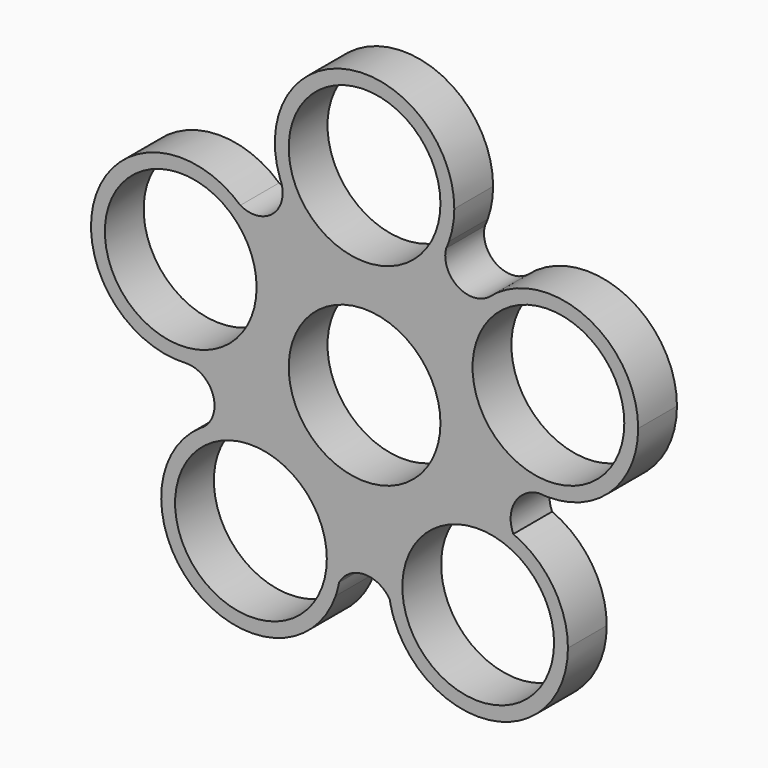
from build123d import *

# Parameters (mm, degrees)
F0_R     = 10.95
F0_R_2   = 12.95
F1_DEPTH = 7


with BuildPart() as f1:
    # F0 (on Front) → F1 (new body)
    with BuildSketch(Plane.XZ):
        with BuildLine():
            ThreePointArc((12.172466, 23.480318), (12.754135, 25.656223), (12.95, 27.900001))
            ThreePointArc((12.95, 27.900001), (-2.180319, 40.665138), (-12.215824, 23.601612))
            ThreePointArc((-12.215824, 23.601612), (-12.088324, 23.302709), (-11.98498, 22.994619))
            ThreePointArc((-11.98498, 22.994619), (-0.272784, 14.952874), (11.767732, 22.494172))
            ThreePointArc((11.767732, 22.494172), (11.936748, 23.000933), (12.172466, 23.480318))
        make_face()
        with Locations((0, 27.900001)):
            Circle(F0_R, mode=Mode.SUBTRACT)
        with BuildLine():
            ThreePointArc((-11.98498, 22.994619), (-12.088324, 23.302709), (-12.215824, 23.601612))
            ThreePointArc((-12.215824, 23.601612), (-12.104208, 23.296668), (-11.98498, 22.994619))
        make_face()
        with BuildLine():
            ThreePointArc((11.767732, 22.494172), (11.98025, 22.983079), (12.172466, 23.480318))
            ThreePointArc((12.172466, 23.480318), (11.936748, 23.000933), (11.767732, 22.494172))
        make_face()
        with BuildLine():
            ThreePointArc((11.767732, 22.494172), (-0.272784, 14.952874), (-11.98498, 22.994619))
            ThreePointArc((-11.98498, 22.994619), (-13.375236, 18.64351), (-17.930122, 18.300016))
            ThreePointArc((-17.930122, 18.300016), (-14.720748, 13.926351), (-13.584492, 8.621829))
            ThreePointArc((-13.584492, 8.621829), (-17.123103, -0.273577), (-25.805072, -4.307612))
            ThreePointArc((-25.805072, -4.307612), (-21.900239, -6.980602), (-23.17786, -11.536948))
            ThreePointArc((-23.17786, -11.536948), (-10.077985, -11.268985), (-3.449471, -22.571256))
            ThreePointArc((-3.449471, -22.571256), (-3.506141, -23.781442), (-3.675656, -24.981036))
            ThreePointArc((-3.675656, -24.981036), (-0.079184, -22.764184), (3.637357, -24.773254))
            ThreePointArc((3.637357, -24.773254), (8.35921, -12.419261), (21.466525, -10.654224))
            ThreePointArc((21.466525, -10.654224), (21.711548, -6.496146), (25.227226, -4.262393))
            ThreePointArc((25.227226, -4.262393), (14.212611, 4.636512), (17.93026, 18.300016))
            ThreePointArc((17.93026, 18.300016), (13.371414, 18.226062), (11.767732, 22.494172))
        make_face()
        Circle(F0_R_2, mode=Mode.SUBTRACT)
        with BuildLine():
            ThreePointArc((-13.584492, 8.621829), (-14.720748, 13.926351), (-17.930122, 18.300016))
            ThreePointArc((-17.930122, 18.300016), (-38.763807, 12.881685), (-25.805072, -4.307612))
            ThreePointArc((-25.805072, -4.307612), (-17.123103, -0.273577), (-13.584492, 8.621829))
        make_face()
        with Locations((-26.534493, 8.621829)):
            Circle(F0_R, mode=Mode.SUBTRACT)
        with BuildLine():
            ThreePointArc((39.48424, 8.621481), (31.839, 20.435118), (17.93026, 18.300016))
            ThreePointArc((17.93026, 18.300016), (14.212611, 4.636512), (25.227226, -4.262393))
            ThreePointArc((25.227226, -4.262393), (25.883111, -4.24845), (26.53424, -4.328519))
            ThreePointArc((26.53424, -4.328519), (35.691273, -0.535552), (39.48424, 8.621481))
        make_face()
        with Locations((26.53424, 8.621481)):
            Circle(F0_R, mode=Mode.SUBTRACT)
        with BuildLine():
            ThreePointArc((26.53424, -4.328519), (25.883111, -4.24845), (25.227226, -4.262393))
            ThreePointArc((25.227226, -4.262393), (25.879897, -4.311977), (26.53424, -4.328519))
        make_face()
        with BuildLine():
            ThreePointArc((-23.821215, -11.958988), (-23.48952, -11.763239), (-23.17786, -11.536948))
            ThreePointArc((-23.17786, -11.536948), (-23.502673, -11.743188), (-23.821215, -11.958988))
        make_face()
        with BuildLine():
            ThreePointArc((-3.449471, -22.571256), (-10.077985, -11.268985), (-23.17786, -11.536948))
            ThreePointArc((-23.17786, -11.536948), (-23.48952, -11.763239), (-23.821215, -11.958988))
            ThreePointArc((-23.821215, -11.958988), (-24.225526, -32.888977), (-4.179363, -26.857451))
            ThreePointArc((-4.179363, -26.857451), (-4.036912, -25.889875), (-3.675656, -24.981036))
            ThreePointArc((-3.675656, -24.981036), (-3.506141, -23.781442), (-3.449471, -22.571256))
        make_face()
        with Locations((-16.399471, -22.571256)):
            Circle(F0_R, mode=Mode.SUBTRACT)
        with BuildLine():
            ThreePointArc((29.34881, -22.571471), (27.199953, -15.427396), (21.466525, -10.654224))
            ThreePointArc((21.466525, -10.654224), (8.35921, -12.419261), (3.637357, -24.773254))
            ThreePointArc((3.637357, -24.773254), (4.116997, -25.884803), (4.261486, -27.086767))
            ThreePointArc((4.261486, -27.086767), (18.692733, -35.316683), (29.34881, -22.571471))
        make_face()
        with Locations((16.398809, -22.571471)):
            Circle(F0_R, mode=Mode.SUBTRACT)
        with BuildLine():
            ThreePointArc((4.261486, -27.086767), (4.116997, -25.884803), (3.637357, -24.773254))
            ThreePointArc((3.637357, -24.773254), (3.895796, -25.944477), (4.261486, -27.086767))
        make_face()
        with BuildLine():
            ThreePointArc((-4.179363, -26.857451), (-3.892271, -25.928703), (-3.675656, -24.981036))
            ThreePointArc((-3.675656, -24.981036), (-4.036912, -25.889875), (-4.179363, -26.857451))
        make_face()
        Circle(F0_R_2)
        Circle(F0_R, mode=Mode.SUBTRACT)
    extrude(amount=F1_DEPTH)


solid = f1.part
